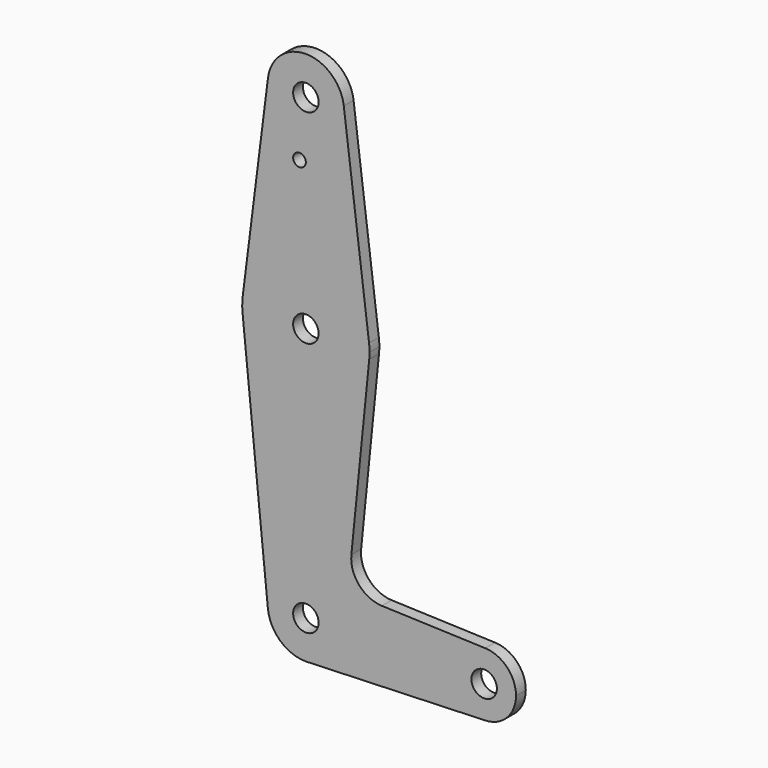
from build123d import *

# Parameters (mm, degrees)
F0_R     = 3.175
F0_R_2   = 1.5875
F1_DEPTH = 3.048


with BuildPart() as f1:
    # F0 (on Front) → F1 (new body)
    with BuildSketch(Plane.XZ):
        with BuildLine():
            ThreePointArc((0.677344, -9.500886), (6.970557, -6.491299), (9.525, 0))
            ThreePointArc((9.525, 0), (-0.476848, 9.513056), (-9.477255, -0.9525))
            ThreePointArc((-9.477255, -0.9525), (-6.389564, -7.063929), (0, -9.525))
            Line((0, -9.525), (0.677344, -9.500886))
        make_face()
        Circle(F0_R, mode=Mode.SUBTRACT)
        with BuildLine():
            ThreePointArc((-9.477255, -0.9525), (-0.476848, 9.513056), (9.525, 0))
            ThreePointArc((9.525, 0), (6.970557, -6.491299), (0.677344, -9.500886))
            Line((0.677344, -9.500886), (44.732405, -7.932475))
            ThreePointArc((44.732405, -7.932475), (36.5125, 0), (44.732405, 7.932475))
            Line((44.732405, 7.932475), (18.968328, 8.849706))
            ThreePointArc((18.968328, 8.849706), (13.261204, 11.567463), (11.340836, 17.589892))
            Line((11.340836, 17.589892), (15.795426, 61.9125))
            ThreePointArc((15.795426, 61.9125), (0, 47.625), (-15.795426, 61.9125))
            Line((-15.795426, 61.9125), (-9.477255, -0.9525))
        make_face()
        with BuildLine():
            ThreePointArc((0, -9.525), (0.338886, -9.51897), (0.677344, -9.500886))
            Line((0.677344, -9.500886), (0, -9.525))
        make_face()
        with BuildLine():
            ThreePointArc((-15.750488, 65.484375), (-15.873744, 63.699705), (-15.795426, 61.9125))
            ThreePointArc((-15.795426, 61.9125), (0, 47.625), (15.795426, 61.9125))
            ThreePointArc((15.795426, 61.9125), (15.855094, 62.705253), (15.875, 63.5))
            ThreePointArc((15.875, 63.5), (15.843841, 64.494139), (15.750488, 65.484375))
            ThreePointArc((15.750488, 65.484375), (0, 79.375), (-15.750488, 65.484375))
        make_face()
        with Locations((0, 63.5)):
            Circle(F0_R, mode=Mode.SUBTRACT)
        with BuildLine():
            ThreePointArc((44.732405, 7.932475), (36.5125, 0), (44.732405, -7.932475))
            ThreePointArc((44.732405, -7.932475), (50.161633, -5.51191), (52.3875, 0))
            ThreePointArc((52.3875, 0), (50.161633, 5.51191), (44.732405, 7.932475))
        make_face()
        with Locations((44.45, 0)):
            Circle(F0_R, mode=Mode.SUBTRACT)
        with BuildLine():
            Line((-9.450293, 115.490625), (-15.750488, 65.484375))
            ThreePointArc((-15.750488, 65.484375), (0, 79.375), (15.750488, 65.484375))
            Line((15.750488, 65.484375), (9.450293, 115.490625))
            ThreePointArc((9.450293, 115.490625), (9.506305, 114.896483), (9.525, 114.3))
            ThreePointArc((9.525, 114.3), (-0.596483, 104.793695), (-9.450293, 115.490625))
        make_face()
        with Locations((-1.5875, 100.0252)):
            Circle(F0_R_2, mode=Mode.SUBTRACT)
        with BuildLine():
            ThreePointArc((9.450293, 115.490625), (0, 123.825), (-9.450293, 115.490625))
            ThreePointArc((-9.450293, 115.490625), (-0.596483, 104.793695), (9.525, 114.3))
            ThreePointArc((9.525, 114.3), (9.506305, 114.896483), (9.450293, 115.490625))
        make_face()
        with Locations((0, 114.3)):
            Circle(F0_R, mode=Mode.SUBTRACT)
    extrude(amount=F1_DEPTH)


solid = f1.part
